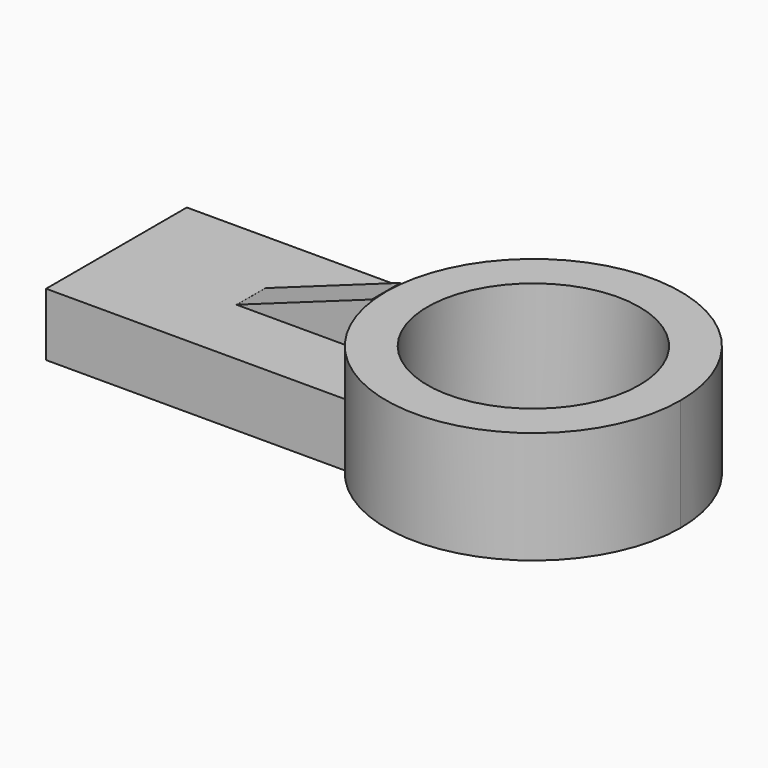
from build123d import *

# Parameters (mm, degrees)
F0_R     = 29.980607
F1_DEPTH = 31.75
F2_DEPTH = 17.78
F4_DEPTH = 5.08


with BuildPart() as f1:
    # F0 (on Top) → F1 (new body)
    with BuildSketch(Plane.XY):
        with BuildLine():
            ThreePointArc((8.249651, -24.887905), (54.774032, -39.548346), (83.328802, 0))
            ThreePointArc((83.328802, 0), (54.774032, 39.548346), (8.249651, 24.887905))
            ThreePointArc((8.249651, 24.887905), (2.145128, 13.197838), (0, 0.185486))
            Line((0, 0.185486), (0, 0))
            Line((0, 0), (0, -0.185486))
            ThreePointArc((0, -0.185486), (2.145128, -13.197838), (8.249651, -24.887905))
        make_face()
        with Locations((41.664194, 0)):
            Circle(F0_R, mode=Mode.SUBTRACT)
    extrude(amount=F1_DEPTH)

    # F0 (on Top) → F2 (join)
    with BuildSketch(Plane.XY):
        with BuildLine():
            ThreePointArc((8.249651, -24.887905), (54.774032, -39.548346), (83.328802, 0))
            ThreePointArc((83.328802, 0), (54.774032, 39.548346), (8.249651, 24.887905))
            ThreePointArc((8.249651, 24.887905), (2.145128, 13.197838), (0, 0.185486))
            Line((0, 0.185486), (0, 0))
            Line((0, 0), (0, -0.185486))
            ThreePointArc((0, -0.185486), (2.145128, -13.197838), (8.249651, -24.887905))
        make_face()
        with Locations((41.664194, 0)):
            Circle(F0_R, mode=Mode.SUBTRACT)
        with BuildLine():
            ThreePointArc((0, 0.185486), (2.145128, 13.197838), (8.249651, 24.887905))
            Line((8.249651, 24.887905), (0, 24.887905))
            Line((0, 24.887905), (0, 0.185486))
        make_face()
        with BuildLine():
            Line((0, -24.887905), (8.249651, -24.887905))
            ThreePointArc((8.249651, -24.887905), (2.145128, -13.197838), (0, -0.185486))
            Line((0, -0.185486), (0, -24.887905))
        make_face()
        with BuildLine():
            ThreePointArc((-0.000413, 0), (-0.00031, 0.092743), (0, 0.185486))
            Line((0, 0.185486), (0, 24.887905))
            Line((0, 24.887905), (-76.291874, 24.887905))
            Line((-76.291874, 24.887905), (-76.291874, 0))
            Line((-76.291874, 0), (-0.000413, 0))
        make_face()
        with BuildLine():
            Line((0, -24.887905), (0, -0.185486))
            ThreePointArc((0, -0.185486), (-0.00031, -0.092743), (-0.000413, 0))
            Line((-0.000413, 0), (-76.291874, 0))
            Line((-76.291874, 0), (-76.291874, -24.887905))
            Line((-76.291874, -24.887905), (0, -24.887905))
        make_face()
    extrude(amount=F2_DEPTH)

    # F3 (on Front) → F4 (join, symmetric)
    with BuildSketch(Plane.XZ):
        Polygon((0, 31.850059), (-38.292281, 18.104225), (0, 18.104225), align=None)
    extrude(amount=F4_DEPTH, both=True)


solid = f1.part
